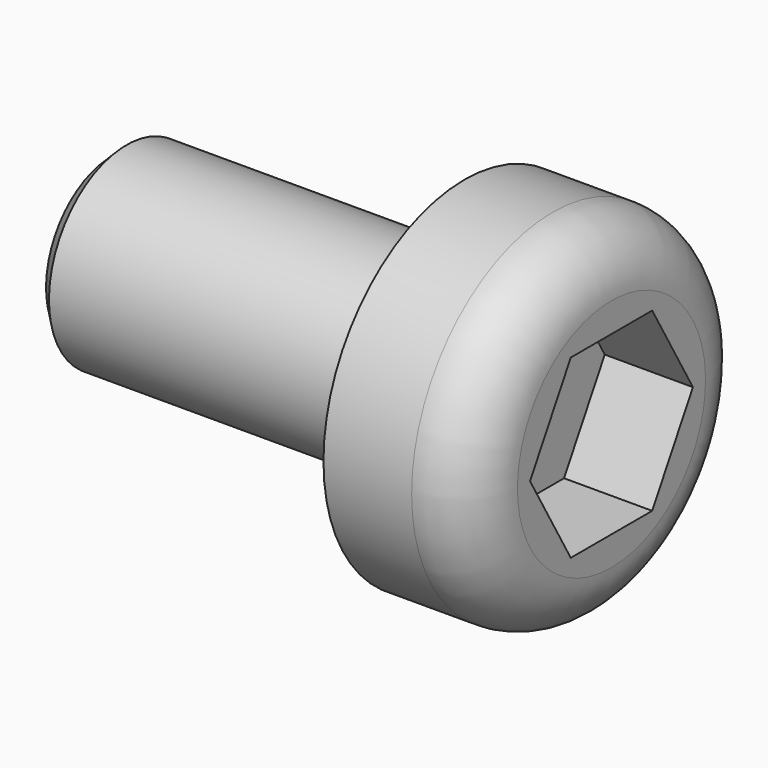
from build123d import *

# Parameters (mm, degrees)
F2_SIZE2 = 0.25
F2_SIZE  = 0.25
F3_R     = 1
F5_DEPTH = 1.5


with BuildPart() as f1:
    # F0 (on Front) → F1 (revolve)
    with BuildSketch(Plane.XZ):
        Polygon((4.25, 0), (-4.25, 0), (-4.25, -1.65), (1.75, -1.65), (1.75, -3), (4.25, -3), align=None)
    revolve(axis=Axis((4.160319, 0, 0), (1, 0, 0)))

    # F2
    f2_edges = [f1.edges().sort_by_distance(p)[0] for p in [
        (-4.25, 0, 1.65),
    ]]
    chamfer(f2_edges, length=F2_SIZE, length2=F2_SIZE2)

    # F3
    f3_edges = [f1.edges().sort_by_distance(p)[0] for p in [
        (4.25, 0, 3),
    ]]
    fillet(f3_edges, radius=F3_R)

    # F4 (on face) → F5 (cut)
    with BuildSketch(Plane.YZ.offset(4.25)):
        Polygon((0.866025, 1.5), (-0.866025, 1.5), (-1.732051, 0), (-0.866025, -1.5), (0.866025, -1.5), (1.732051, 0), align=None)
    extrude(amount=-F5_DEPTH, mode=Mode.SUBTRACT)


solid = f1.part
